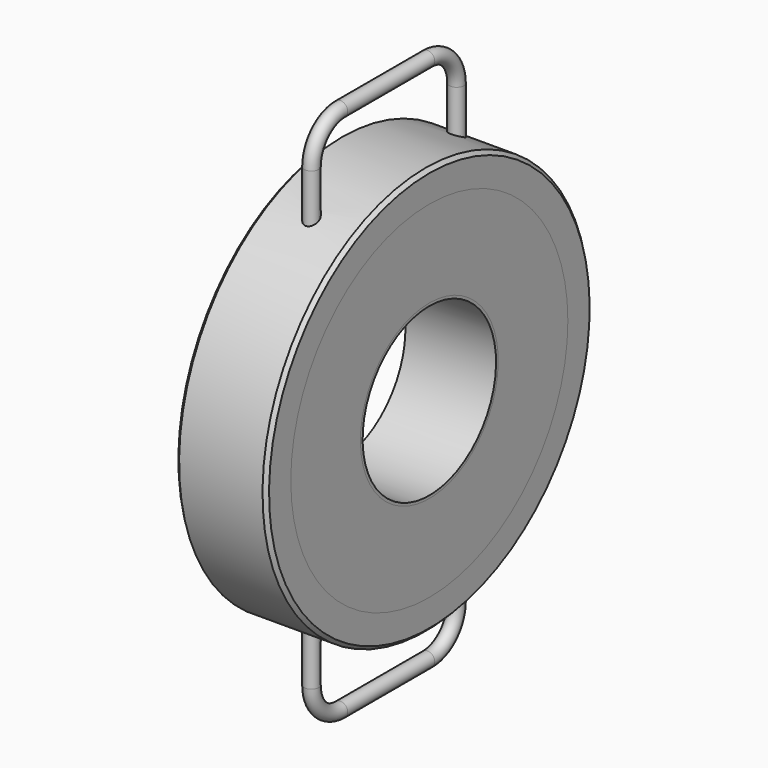
from build123d import *

# Parameters (mm, degrees)
F0_W     = 50
F0_H     = 1.5
F2_W     = 50
F2_H     = 48
F4_W     = 50
F4_H     = 17
F8_R     = 4
F11_SIZE = 2


with BuildPart() as f1:
    # F0 (on Front) → F1 (revolve)
    with BuildSketch(Plane.XZ):
        with Locations((0, 46.75)):
            Rectangle(F0_W, F0_H)
    revolve(axis=Axis((0, 0, 0), (1, 0, 0)))


with BuildPart() as f3:
    # F2 (on Front) → F3 (revolve)
    with BuildSketch(Plane.XZ):
        with Locations((0, 71.5)):
            Rectangle(F2_W, F2_H)
    revolve(axis=Axis((0, 0, 0), (1, 0, 0)))


with BuildPart() as f5:
    # F4 (on Front) → F5 (revolve)
    with BuildSketch(Plane.XZ):
        with Locations((0, 104)):
            Rectangle(F4_W, F4_H)
    revolve(axis=Axis((0, 0, 0), (1, 0, 0)))



with BuildPart() as f9:
    # F9: sweep along a path in F6
    with BuildLine(Plane.YZ) as f9_path:
        Line((-50, 95.1643315534), (-50, 125.7782218537))
        ThreePointArc((-50, 125.7782218537), (-44.1421356237, 139.9203574775), (-30, 145.7782218537))
        Line((-30, 145.7782218537), (30, 145.7782218537))
        ThreePointArc((30, 145.7782218537), (44.1421356237, 139.9203574775), (50, 125.7782218537))
        Line((50, 125.7782218537), (50, 95.1643315534))
    # F8 (on plane+point) → F9 (sweep)
    with BuildSketch(Plane.XY.offset(95.1643315534)):
        with Locations((0, -50)):
            Circle(F8_R)
    sweep(path=f9_path.line)


with BuildPart() as f5_1:
    add(f5.part)

    add(f9.part)  # F10 merges F9
    # F10: F9 across plane
    add(f9.part.mirror(Plane.XY))

    # F11
    f11_edges = [f5_1.edges().sort_by_distance(p)[0] for p in [
        (25, 0, -112.5),
        (-25, 0, -112.5),
    ]]
    chamfer(f11_edges, length=F11_SIZE)


solid = Compound([f1.part, f3.part, f5_1.part])
